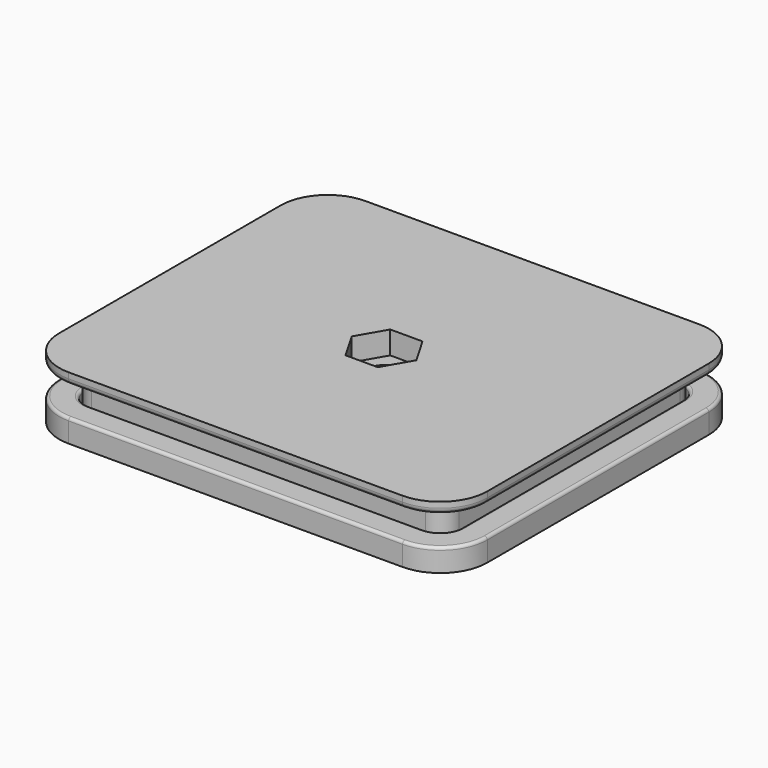
from build123d import *

# Parameters (mm, degrees)
F1_DEPTH          = 7
F3_DEPTH          = 2
F4_DEPTH          = 4
F7_DEPTH          = 2
F8_R              = 0.5
F10_D             = 5.5
F10_CBORE_D       = 6.5
F10_CBORE_DEPTH   = 3
F10_2_D           = 5.5
F10_2_CBORE_D     = 6.5
F10_2_CBORE_DEPTH = 3
F11_DEPTH         = 4
F12_R             = 1


with BuildPart() as f1:
    # F0 (on Top) → F1 (new body)
    with BuildSketch(Plane.XY):
        with BuildLine():
            Line((29.25, 27.5), (-29.25, 27.5))
            ThreePointArc((-29.25, 27.5), (-31.5480970389, 26.5480970389), (-32.5, 24.25))
            Line((-32.5, 24.25), (-32.5, -24.25))
            ThreePointArc((-32.5, -24.25), (-31.5480970389, -26.5480970389), (-29.25, -27.5))
            Line((-29.25, -27.5), (29.25, -27.5))
            ThreePointArc((29.25, -27.5), (31.5480970389, -26.5480970389), (32.5, -24.25))
            Line((32.5, -24.25), (32.5, 24.25))
            ThreePointArc((32.5, 24.25), (31.5480970389, 26.5480970389), (29.25, 27.5))
        make_face()
    extrude(amount=F1_DEPTH)

    # F2 (on face) → F3 (join)
    with BuildSketch(Plane.XY.offset(7)):
        with BuildLine():
            Line((29.25, 32.5), (-29.25, 32.5))
            ThreePointArc((-29.25, 32.5), (-35.0836309448, 30.0836309448), (-37.5, 24.25))
            Line((-37.5, 24.25), (-37.5, -24.25))
            ThreePointArc((-37.5, -24.25), (-35.0836309448, -30.0836309448), (-29.25, -32.5))
            Line((-29.25, -32.5), (29.25, -32.5))
            ThreePointArc((29.25, -32.5), (35.0836309448, -30.0836309448), (37.5, -24.25))
            Line((37.5, -24.25), (37.5, 24.25))
            ThreePointArc((37.5, 24.25), (35.0836309448, 30.0836309448), (29.25, 32.5))
        make_face()
    extrude(amount=F3_DEPTH)

    # F10 (through all)
    with Locations(Plane.XY.offset(9)):
        with Locations((0, 0)):
            CounterBoreHole(F10_D / 2, F10_CBORE_D / 2, F10_CBORE_DEPTH)

    # F9 (on face) → F11 (cut)
    with BuildSketch(Plane.XY.offset(9)):
        Polygon((-2.829016319, -4.9), (2.829016319, -4.9), (5.6580326381, 0), (2.829016319, 4.9), (-2.829016319, 4.9), (-5.6580326381, 0), align=None)
    extrude(amount=-F11_DEPTH, mode=Mode.SUBTRACT)

    # F12
    f12_edges = [f1.edges().sort_by_distance(p)[0] for p in [
        (37.5, 0, 7),
        (35.083631, -30.083631, 7),
        (0, -32.5, 7),
        (-35.083631, -30.083631, 7),
        (-37.5, 0, 7),
        (-35.083631, 30.083631, 7),
        (0, 32.5, 7),
        (35.083631, 30.083631, 7),
    ]]
    fillet(f12_edges, radius=F12_R)


with BuildPart() as f4:
    # F2 (on face) → F4 (new body)
    with BuildSketch(Plane.XY.offset(7)):
        with BuildLine():
            Line((29.25, 32.5), (-29.25, 32.5))
            ThreePointArc((-29.25, 32.5), (-35.0836309448, 30.0836309448), (-37.5, 24.25))
            Line((-37.5, 24.25), (-37.5, -24.25))
            ThreePointArc((-37.5, -24.25), (-35.0836309448, -30.0836309448), (-29.25, -32.5))
            Line((-29.25, -32.5), (29.25, -32.5))
            ThreePointArc((29.25, -32.5), (35.0836309448, -30.0836309448), (37.5, -24.25))
            Line((37.5, -24.25), (37.5, 24.25))
            ThreePointArc((37.5, 24.25), (35.0836309448, 30.0836309448), (29.25, 32.5))
        make_face()
    extrude(amount=F4_DEPTH)


with BuildPart() as f4_1:
    # F5: moved
    add(f4.part.moved(Location((0, 0, -9))))

    # F6 (on face) → F7 (cut)
    with BuildSketch(Plane.XY.offset(2)):
        with BuildLine():
            Line((29.25, 28), (-29.25, 28))
            ThreePointArc((-29.25, 28), (-31.9016504294, 26.9016504294), (-33, 24.25))
            Line((-33, 24.25), (-33, -24.25))
            ThreePointArc((-33, -24.25), (-31.9016504294, -26.9016504294), (-29.25, -28))
            Line((-29.25, -28), (29.25, -28))
            ThreePointArc((29.25, -28), (31.9016504294, -26.9016504294), (33, -24.25))
            Line((33, -24.25), (33, 24.25))
            ThreePointArc((33, 24.25), (31.9016504294, 26.9016504294), (29.25, 28))
        make_face()
    extrude(amount=-F7_DEPTH, mode=Mode.SUBTRACT)

    # F8
    f8_edges = [f4_1.edges().sort_by_distance(p)[0] for p in [
        (0, 32.5, 2),
        (35.083631, 30.083631, 2),
        (-35.083631, 30.083631, 2),
        (37.5, 0, 2),
        (-37.5, 0, 2),
        (35.083631, -30.083631, 2),
        (-35.083631, -30.083631, 2),
        (0, -32.5, 2),
        (0, 28, 2),
        (-31.90165, 26.90165, 2),
        (-33, 0, 2),
        (-31.90165, -26.90165, 2),
        (0, -28, 2),
        (31.90165, -26.90165, 2),
        (33, 0, 2),
        (31.90165, 26.90165, 2),
    ]]
    fillet(f8_edges, radius=F8_R)

    # F10#2 (through all)
    with Locations(Plane.XY.offset(9)):
        with Locations((0, 0)):
            CounterBoreHole(F10_2_D / 2, F10_2_CBORE_D / 2, F10_2_CBORE_DEPTH)


solid = Compound([f1.part, f4_1.part])
